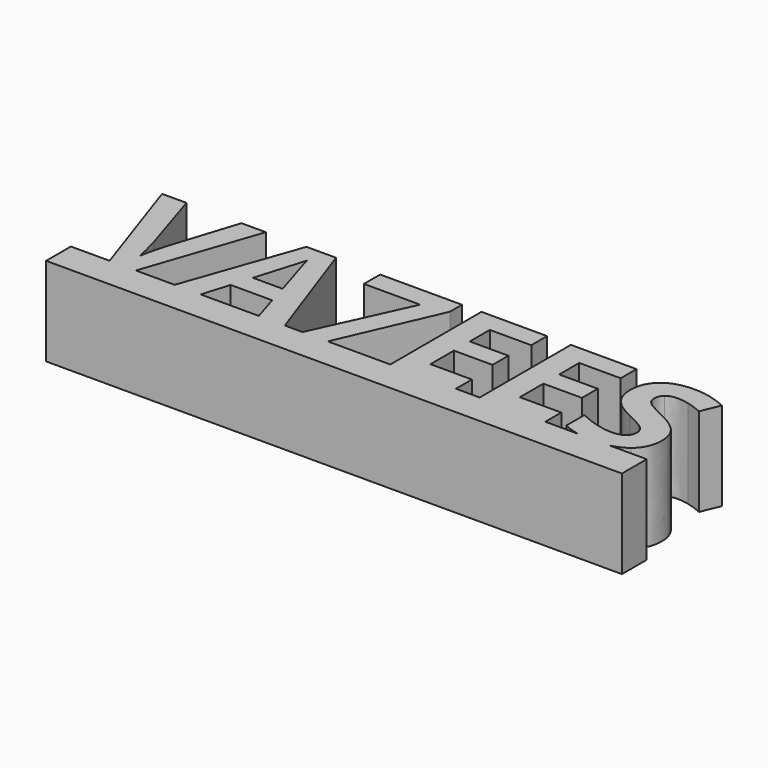
from build123d import *

# Parameters (mm, degrees)
F1_DEPTH = 20


with BuildPart() as f1:
    # F0 (on Top) → F1 (new body)
    with BuildSketch(Plane.XY):
        with BuildLine():
            Line((-56.2706320669, 0), (-65, 0))
            Line((-65, 0), (-65, -7))
            Line((-65, -7), (65, -7))
            Line((65, -7), (65, 0))
            Line((65, 0), (56.5877659568, 0))
            add(Edge.make_bspline(
                [(56.5877659568, 0), (55.0561807697, -0.3548065676), (53.1787462635, -0.3548065676)],
                knots=[0.5796214889, 0.5796214889, 0.5796214889, 1, 1, 1], degree=2))
            add(Edge.make_bspline(
                [(53.1787462635, -0.3548065676), (51.2091468082, -0.3548065676), (49.45808763, 0)],
                knots=[0, 0, 0, 0.477766543, 0.477766543, 0.477766543], degree=2))
            Line((49.45808763, 0), (42.1065286141, 0))
            Line((42.1065286141, 0), (27.289130529, 0))
            Line((27.289130529, 0), (21.9219772127, 0))
            Line((21.9219772127, 0), (7.1045791275, 0))
            Line((7.1045791275, 0), (-7.0088376727, 0))
            Line((-7.0088376727, 0), (-12.7139020058, 0))
            Line((-12.7139020058, 0), (-16.7068838539, 0))
            Line((-16.7068838539, 0), (-22.5865355456, 0))
            Line((-22.5865355456, 0), (-35.6974829961, 0))
            Line((-35.6974829961, 0), (-41.5771346879, 0))
            Line((-41.5771346879, 0), (-50.3233981718, 0))
            Line((-50.3233981718, 0), (-56.2706320669, 0))
        make_face()
        with BuildLine():
            Line((-65, 25.7319239267), (-56.2706320669, 0))
            Line((-56.2706320669, 0), (-50.3233981718, 0))
            Line((-50.3233981718, 0), (-41.5771346879, 25.7319239267))
            Line((-41.5771346879, 25.7319239267), (-47.0850842611, 25.7319239267))
            Line((-47.0850842611, 25.7319239267), (-51.9566347528, 10.4189230169))
            add(Edge.make_bspline(
                [(-53.2801195685, 4.7532816358), (-53.0830048087, 6.369622666), (-51.9566347528, 10.4189230169)],
                knots=[0, 0, 0, 1, 1, 1], degree=2))
            add(Edge.make_bspline(
                [(-53.8151453451, 7.2594550102), (-53.3814928735, 5.4572629208), (-53.2801195685, 4.7532816358)],
                knots=[0, 0, 0, 1, 1, 1], degree=2))
            add(Edge.make_bspline(
                [(-54.6486591864, 10.4189230169), (-54.2487978166, 9.0616470996), (-53.8151453451, 7.2594550102)],
                knots=[0, 0, 0, 1, 1, 1], degree=2))
            Line((-54.6486591864, 10.4189230169), (-59.4920504267, 25.7319239267))
            Line((-59.4920504267, 25.7319239267), (-65, 25.7319239267))
        make_face()
        Polygon((-32.4929601872, 25.838929082), (-41.5771346879, 0), (-35.6974829961, 0), (-33.8333405537, 6.127453104), (-24.4506779881, 6.127453104), (-22.5865355456, 0), (-16.7068838539, 0), (-25.8248494563, 25.838929082), align=None)
        with BuildLine():
            add(Edge.make_bspline(
                [(-25.757267253, 10.7005155309), (-28.3422865312, 19.0243902439), (-28.6689338474, 20.1169691981)],
                knots=[0, 0, 0, 1, 1, 1], degree=2))
            Line((-25.757267253, 10.7005155309), (-32.4591690855, 10.7005155309))
            add(Edge.make_bspline(
                [(-29.1363774206, 21.8403153836), (-29.7164579994, 19.5875752718), (-32.4591690855, 10.7005155309)],
                knots=[0, 0, 0, 1, 1, 1], degree=2))
            add(Edge.make_bspline(
                [(-28.6689338474, 20.1169691981), (-28.9955811636, 21.2095481523), (-29.1363774206, 21.8403153836)],
                knots=[0, 0, 0, 1, 1, 1], degree=2))
        make_face(mode=Mode.SUBTRACT)
        with BuildLine():
            add(Edge.make_bspline(
                [(56.5877659568, 0), (55.0561807697, -0.3548065676), (53.1787462635, -0.3548065676)],
                knots=[0.5796214889, 0.5796214889, 0.5796214889, 1, 1, 1], degree=2))
            Line((56.5877659568, 0), (49.45808763, 0))
            add(Edge.make_bspline(
                [(53.1787462635, -0.3548065676), (51.2091468082, -0.3548065676), (49.45808763, 0)],
                knots=[0, 0, 0, 0.477766543, 0.477766543, 0.477766543], degree=2))
        make_face()
        with BuildLine():
            Line((49.45808763, 0), (56.5877659568, 0))
            add(Edge.make_bspline(
                [(60.1537928346, 1.652948057), (58.6995287211, 0.4892103321), (56.5877659568, 0)],
                knots=[0, 0, 0, 0.5796214889, 0.5796214889, 0.5796214889], degree=2))
            add(Edge.make_bspline(
                [(62.662782134, 7.1468180046), (62.662782134, 3.6607026816), (60.1537928346, 1.652948057)],
                knots=[0, 0, 0, 1, 1, 1], degree=2))
            add(Edge.make_bspline(
                [(61.3252176927, 11.3960490404), (62.662782134, 9.6642550795), (62.662782134, 7.1468180046)],
                knots=[0, 0, 0, 1, 1, 1], degree=2))
            add(Edge.make_bspline(
                [(56.3776372222, 14.8568210371), (59.9876532513, 13.1278430013), (61.3252176927, 11.3960490404)],
                knots=[0, 0, 0, 1, 1, 1], degree=2))
            add(Edge.make_bspline(
                [(52.9224970758, 16.6590131265), (53.651821687, 16.1577784517), (56.3776372222, 14.8568210371)],
                knots=[0, 0, 0, 1, 1, 1], degree=2))
            add(Edge.make_bspline(
                [(51.858077373, 17.6980895031), (52.1931724646, 17.1602478014), (52.9224970758, 16.6590131265)],
                knots=[0, 0, 0, 1, 1, 1], degree=2))
            add(Edge.make_bspline(
                [(51.5229822813, 18.9568080405), (51.5229822813, 18.2359312048), (51.858077373, 17.6980895031)],
                knots=[0, 0, 0, 1, 1, 1], degree=2))
            add(Edge.make_bspline(
                [(52.3508642724, 20.8378460339), (51.5229822813, 20.1169691981), (51.5229822813, 18.9568080405)],
                knots=[0, 0, 0, 1, 1, 1], degree=2))
            add(Edge.make_bspline(
                [(54.7275050903, 21.5587228696), (53.1787462635, 21.5587228696), (52.3508642724, 20.8378460339)],
                knots=[0, 0, 0, 1, 1, 1], degree=2))
            add(Edge.make_bspline(
                [(57.3744747217, 21.223627778), (56.0284625049, 21.5587228696), (54.7275050903, 21.5587228696)],
                knots=[0, 0, 0, 1, 1, 1], degree=2))
            add(Edge.make_bspline(
                [(60.7817441407, 20.0437551445), (58.7204869384, 20.8885326864), (57.3744747217, 21.223627778)],
                knots=[0, 0, 0, 1, 1, 1], degree=2))
            Line((60.7817441407, 20.0437551445), (62.5388814279, 24.2901702552))
            add(Edge.make_bspline(
                [(58.7289347139, 25.6249187714), (60.5508382793, 25.1518433479), (62.5388814279, 24.2901702552)],
                knots=[0, 0, 0, 1, 1, 1], degree=2))
            add(Edge.make_bspline(
                [(54.902092449, 26.0979941949), (56.9070311485, 26.0979941949), (58.7289347139, 25.6249187714)],
                knots=[0, 0, 0, 1, 1, 1], degree=2))
            add(Edge.make_bspline(
                [(48.5043105316, 24.146558073), (50.8190009964, 26.0979941949), (54.902092449, 26.0979941949)],
                knots=[0, 0, 0, 1, 1, 1], degree=2))
            add(Edge.make_bspline(
                [(46.1896200667, 18.7765888316), (46.1896200667, 22.1951219512), (48.5043105316, 24.146558073)],
                knots=[0, 0, 0, 1, 1, 1], degree=2))
            add(Edge.make_bspline(
                [(46.8936013516, 15.6114889746), (46.1896200667, 16.9687648919), (46.1896200667, 18.7765888316)],
                knots=[0, 0, 0, 1, 1, 1], degree=2))
            add(Edge.make_bspline(
                [(48.7774552701, 13.2348481567), (47.5975826366, 14.2542130572), (46.8936013516, 15.6114889746)],
                knots=[0, 0, 0, 1, 1, 1], degree=2))
            add(Edge.make_bspline(
                [(52.3114413205, 11.106008751), (49.9573279037, 12.2154832561), (48.7774552701, 13.2348481567)],
                knots=[0, 0, 0, 1, 1, 1], degree=2))
            add(Edge.make_bspline(
                [(55.648312611, 9.3629510895), (54.8288783954, 9.9064246415), (52.3114413205, 11.106008751)],
                knots=[0, 0, 0, 1, 1, 1], degree=2))
            add(Edge.make_bspline(
                [(56.8901355976, 8.2281332582), (56.4677468267, 8.8194775376), (55.648312611, 9.3629510895)],
                knots=[0, 0, 0, 1, 1, 1], degree=2))
            add(Edge.make_bspline(
                [(57.3125243686, 6.8821210415), (57.3125243686, 7.6367889789), (56.8901355976, 8.2281332582)],
                knots=[0, 0, 0, 1, 1, 1], degree=2))
            add(Edge.make_bspline(
                [(56.3522938959, 4.8405753152), (57.3125243686, 5.5248451241), (57.3125243686, 6.8821210415)],
                knots=[0, 0, 0, 1, 1, 1], degree=2))
            add(Edge.make_bspline(
                [(53.6011350344, 4.1563055062), (55.3920634233, 4.1563055062), (56.3522938959, 4.8405753152)],
                knots=[0, 0, 0, 1, 1, 1], degree=2))
            add(Edge.make_bspline(
                [(50.2980548456, 4.6293809297), (52.1030628601, 4.1563055062), (53.6011350344, 4.1563055062)],
                knots=[0, 0, 0, 1, 1, 1], degree=2))
            add(Edge.make_bspline(
                [(45.8911320019, 6.268249361), (48.493046831, 5.1024563532), (50.2980548456, 4.6293809297)],
                knots=[0, 0, 0, 1, 1, 1], degree=2))
            Line((45.8911320019, 6.268249361), (45.8911320019, 1.1995841095))
            add(Edge.make_bspline(
                [(49.45808763, 0), (47.5440530421, 0.3878292926), (45.8911320019, 1.1995841095)],
                knots=[0.477766543, 0.477766543, 0.477766543, 1, 1, 1], degree=2))
        make_face()
        Polygon((27.289130529, 0), (42.1065286141, 0), (42.1065286141, 4.5054802235), (32.7463934497, 4.5054802235), (32.7463934497, 11.1397998527), (41.458865832, 11.1397998527), (41.458865832, 15.6114889746), (32.7463934497, 15.6114889746), (32.7463934497, 21.2602348048), (42.1065286141, 21.2602348048), (42.1065286141, 25.7319239267), (27.289130529, 25.7319239267), align=None)
        Polygon((-3.0496469263, 21.1194385478), (-12.7139020058, 0), (-7.0088376727, 0), (2.7229996101, 22.2795997054), (2.7229996101, 25.698132825), (-15.7382056059, 25.698132825), (-15.7382056059, 21.1194385478), align=None)
        Polygon((7.1045791275, 0), (21.9219772127, 0), (21.9219772127, 4.5054802235), (12.5618420483, 4.5054802235), (12.5618420483, 11.1397998527), (21.2743144305, 11.1397998527), (21.2743144305, 15.6114889746), (12.5618420483, 15.6114889746), (12.5618420483, 21.2602348048), (21.9219772127, 21.2602348048), (21.9219772127, 25.7319239267), (7.1045791275, 25.7319239267), align=None)
    extrude(amount=F1_DEPTH)


solid = f1.part
